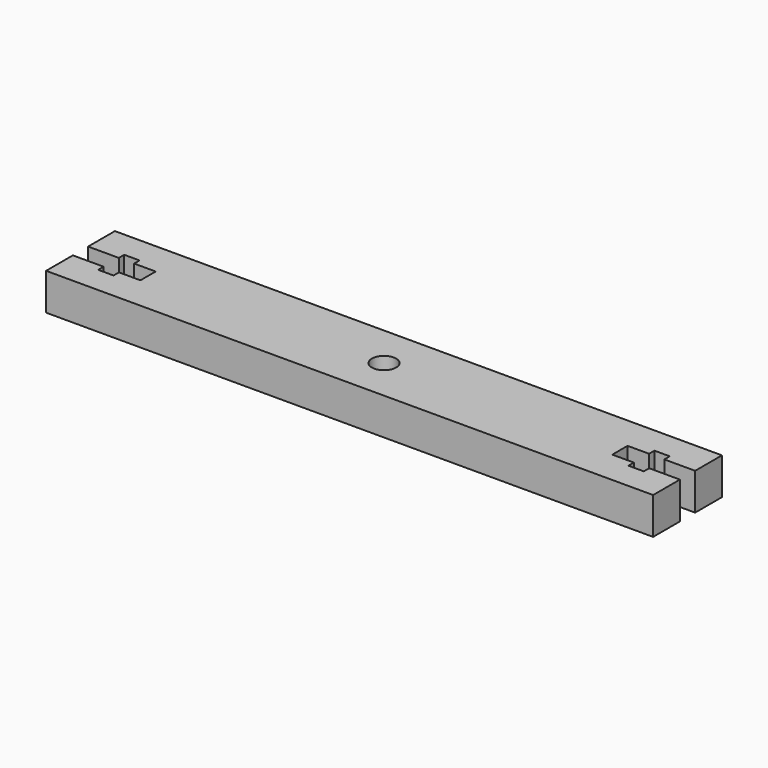
from build123d import *

# Parameters (mm, degrees)
F0_W     = 98.8
F0_H     = 14
F1_DEPTH = 6
F2_W     = 5
F2_H     = 3.1
F2_W_2   = 2.5
F2_H_2   = 1.1
F2_W_3   = 3.5
F3_DEPTH = 6
F4_R     = 1.975
F5_DEPTH = 6


with BuildPart() as f1:
    # F0 (on Top) → F1 (new body)
    with BuildSketch(Plane.XY):
        Rectangle(F0_W, F0_H)
    extrude(amount=F1_DEPTH)

    # F2 (on face) → F3 (cut, through all)
    with BuildSketch(Plane.XY.offset(6)):
        with Locations((-46.9, 0)):
            Rectangle(F2_W, F2_H)
        with Locations((-43.15, 0)):
            Rectangle(F2_W_2, F2_H)
        with Locations((-43.15, -2.1)):
            Rectangle(F2_W_2, F2_H_2)
        with Locations((-40.15, 0)):
            Rectangle(F2_W_3, F2_H)
        with Locations((-43.15, 2.1)):
            Rectangle(F2_W_2, F2_H_2)
        with Locations((46.9, 0)):
            Rectangle(F2_W, F2_H)
        with Locations((43.15, 0)):
            Rectangle(F2_W_2, F2_H)
        with Locations((43.15, -2.1)):
            Rectangle(F2_W_2, F2_H_2)
        with Locations((43.15, 2.1)):
            Rectangle(F2_W_2, F2_H_2)
        with Locations((40.15, 0)):
            Rectangle(F2_W_3, F2_H)
    extrude(amount=-F3_DEPTH, mode=Mode.SUBTRACT)

    # F4 (on face) → F5 (cut, through all)
    with BuildSketch(Plane.XY.offset(6)):
        Circle(F4_R)
    extrude(amount=-F5_DEPTH, mode=Mode.SUBTRACT)


solid = f1.part
